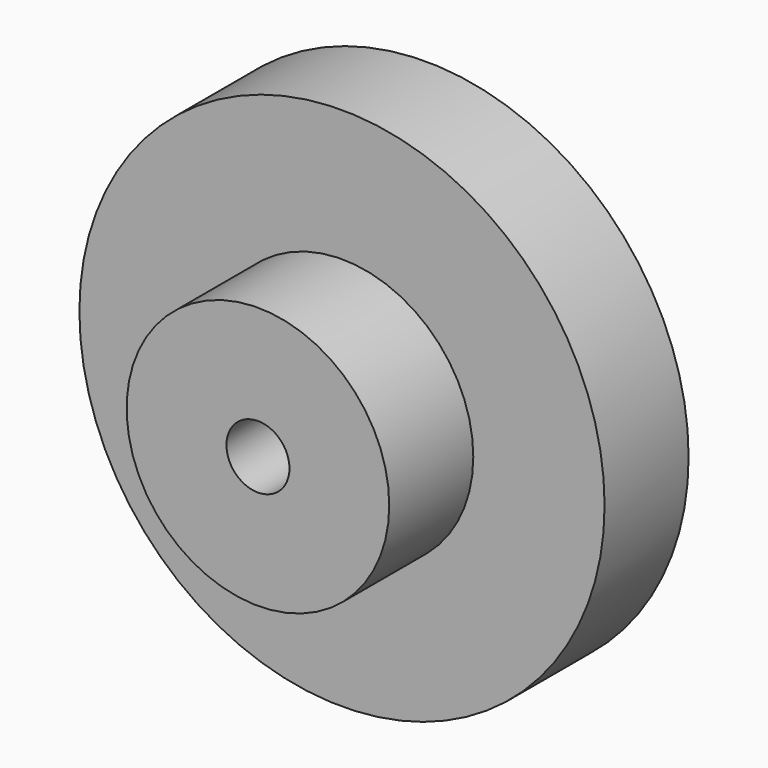
from build123d import *

# Parameters (mm, degrees)
SKETCH_R     = 25
PAD_DEPTH    = 10
SKETCH001_R  = 12.5
PAD001_DEPTH = 10
SKETCH002_R  = 3
POCKET_DEPTH = 20


with BuildPart() as part:
    # Sketch → Pad (new body)
    with BuildSketch(Plane.XZ):
        Circle(SKETCH_R)
    extrude(amount=PAD_DEPTH)

    # Sketch001 (on Face3 of Pad) → Pad001 (join)
    with BuildSketch(Plane.XZ.offset(10)):
        Circle(SKETCH001_R)
    extrude(amount=PAD001_DEPTH)

    # Sketch002 (on Face5 of Pad001) → Pocket (cut)
    with BuildSketch(Plane.XZ.offset(20)):
        Circle(SKETCH002_R)
    extrude(amount=-POCKET_DEPTH, mode=Mode.SUBTRACT)


solid = part.part
